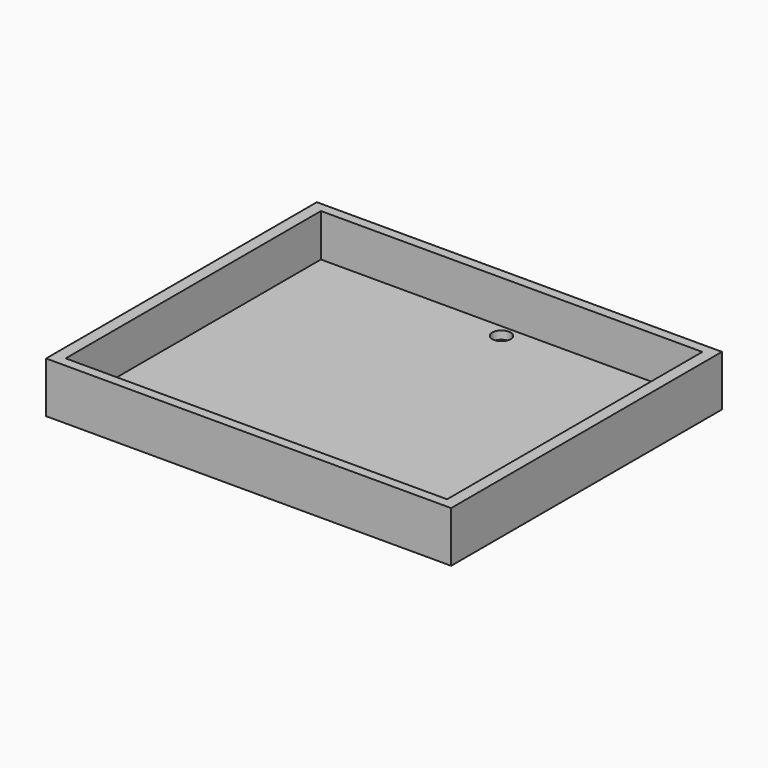
from build123d import *

# Parameters (mm, degrees)
F0_W           = 101.2207046151
F0_H           = 84.5743343234
F0_W_2         = 95.3139290214
F0_H_2         = 79.7415152192
F1_DEPTH       = 12.7
F2_W           = 95.3139290214
F2_H           = 80.278493464
F3_DEPTH       = 2.032
F5_D           = 4.572
F5_CBORE_D     = 4.572
F5_CBORE_DEPTH = 4.572


with BuildPart() as f1:
    # F0 (on Top) → F1 (new body)
    with BuildSketch(Plane.XY):
        Rectangle(F0_W, F0_H)
        Rectangle(F0_W_2, F0_H_2, mode=Mode.SUBTRACT)
    extrude(amount=F1_DEPTH)

    # F2 (on Top) → F3 (join)
    with BuildSketch(Plane.XY):
        Rectangle(F2_W, F2_H)
    extrude(amount=F3_DEPTH)

    # F5 (through all)
    with Locations(Plane(origin=(0, 0, 0), x_dir=(1, 0, 0), z_dir=(0, 0, -1))):
        with Locations((0, -36.6952344775)):
            CounterBoreHole(F5_D / 2, F5_CBORE_D / 2, F5_CBORE_DEPTH)


solid = f1.part
